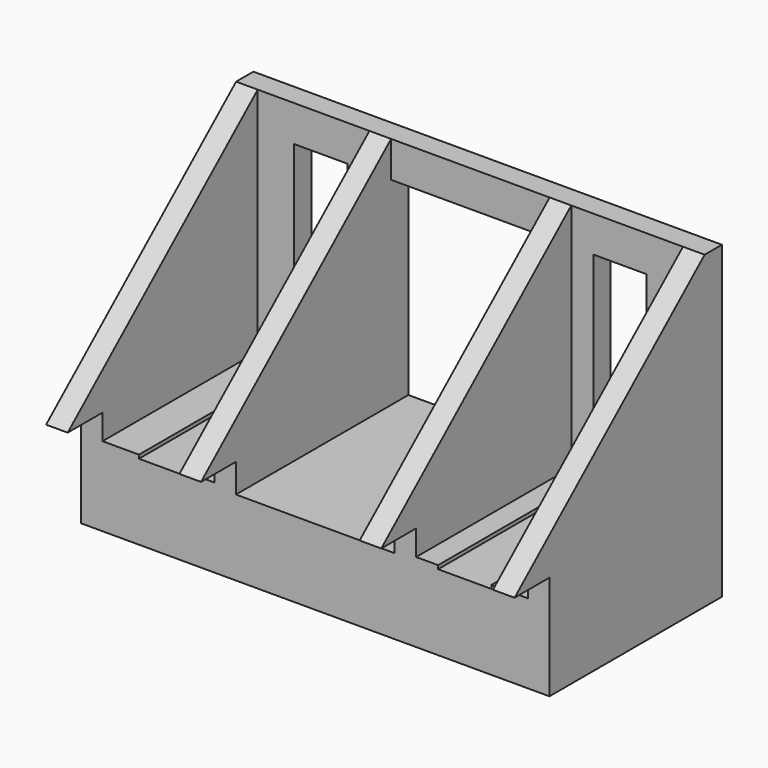
from build123d import *

# Parameters (mm, degrees)
F1_DEPTH  = 3
F2_DEPTH  = 40
F5_DEPTH  = 37
F7_DEPTH  = 3
F8_DEPTH  = 3
F9_DEPTH  = 90
F10_DEPTH = 8
F11_R     = 4
F11_R_2   = 1.4
F12_DEPTH = 15
F13_DEPTH = 18
F14_W     = 10.0909090909
F14_H     = 18
F15_DEPTH = 101.4
F16_DEPTH = 5


with BuildPart() as f1:
    # F0 (on Front) → F1 (new body)
    with BuildSketch(Plane.XZ):
        Polygon((32.5, 17.5), (-32.5, 17.5), (-32.5, -14.5), (-24.45, -14.5), (-24.45, 15), (-20.75, 15), (-17.05, 15), (-17.05, -14.5), (-11, -14.5), (-11, 15), (11, 15), (11, -14.5), (17.05, -14.5), (17.05, 15), (20.75, 15), (24.45, 15), (24.45, -14.5), (32.5, -14.5), align=None)
    extrude(amount=F1_DEPTH)

    # F0 (on Front) → F2 (join)
    with BuildSketch(Plane.XZ):
        Polygon((-24.45, -14.5), (-32.5, -14.5), (-32.5, -17.5), (32.5, -17.5), (32.5, -14.5), (24.45, -14.5), (24.45, -15), (20.75, -15), (17.05, -15), (17.05, -14.5), (11, -14.5), (11, -15), (-11, -15), (-11, -14.5), (-17.05, -14.5), (-17.05, -15), (-20.75, -15), (-24.45, -15), align=None)
    extrude(amount=F2_DEPTH)

    # F4 (on face) → F5 (join)
    with BuildSketch(Plane.XZ.offset(3)):
        Polygon((-14, -14.5), (-11, -14.5), (-11, 15), (-11, 17.5), (-14, 17.5), align=None)
        Polygon((11, 17.5), (11, 15), (11, -14.5), (14, -14.5), (14, 17.5), align=None)
    extrude(amount=F5_DEPTH)

    # F6 (on face) → F7 (join)
    with BuildSketch(Plane.YZ.offset(32.5)):
        Polygon((-3, -14.5), (-3, 17.5), (-40, -14.5), align=None)
    extrude(amount=-F7_DEPTH)

    # F3 (on face) → F8 (join)
    with BuildSketch(Plane(origin=(-32.5, 0, 0), x_dir=(0, -1, 0), z_dir=(-1, 0, 0))):
        Polygon((40, -14.5), (3, 17.5), (3, -14.5), align=None)
    extrude(amount=-F8_DEPTH)

    # F3 (on face) → F9 (cut)
    with BuildSketch(Plane(origin=(-32.5, 0, 0), x_dir=(0, -1, 0), z_dir=(-1, 0, 0))):
        Polygon((45.3402064741, 20.7598140836), (3, 17.5), (40, -14.5), align=None)
    extrude(amount=-F9_DEPTH, mode=Mode.SUBTRACT)

    # F10 (add): a face of the model
    f10_faces = [f1.faces().sort_by_distance(p)[0] for p in [
        (0, -20, -17.5),
    ]]
    extrude(f10_faces, amount=F10_DEPTH)

    # F11 (on face) → F12 (cut)
    with BuildSketch(Plane(origin=(0, 0, -25.5), x_dir=(1, 0, 0), z_dir=(0, 0, -1))):
        with Locations((-21.75, -16.4545454545)):
            Circle(F11_R)
        with Locations((-21.75, -16.4545454545)):
            Circle(F11_R_2, mode=Mode.SUBTRACT)
        with Locations((21.75, -16.4545454545)):
            Circle(F11_R)
        with Locations((21.75, -16.4545454545)):
            Circle(F11_R_2, mode=Mode.SUBTRACT)
    extrude(amount=-F12_DEPTH, mode=Mode.SUBTRACT)

    # F11 (on face) → F13 (cut)
    with BuildSketch(Plane(origin=(0, 0, -25.5), x_dir=(1, 0, 0), z_dir=(0, 0, -1))):
        with Locations((-21.75, -16.4545454545)):
            Circle(F11_R_2)
        with Locations((21.75, -16.4545454545)):
            Circle(F11_R_2)
    extrude(amount=-F13_DEPTH, mode=Mode.SUBTRACT)

    # F14 (on face) → F15 (cut)
    with BuildSketch(Plane.YZ.offset(32.5)):
        with Locations((-34.9545454545, -20)):
            Rectangle(F14_W, F14_H)
    extrude(amount=-F15_DEPTH, mode=Mode.SUBTRACT)

    # F16 (add): a face of the model
    f16_faces = [f1.faces().sort_by_distance(p)[0] for p in [
        (0, -1.5, 17.5),
    ]]
    extrude(f16_faces, amount=-F16_DEPTH)


solid = f1.part
